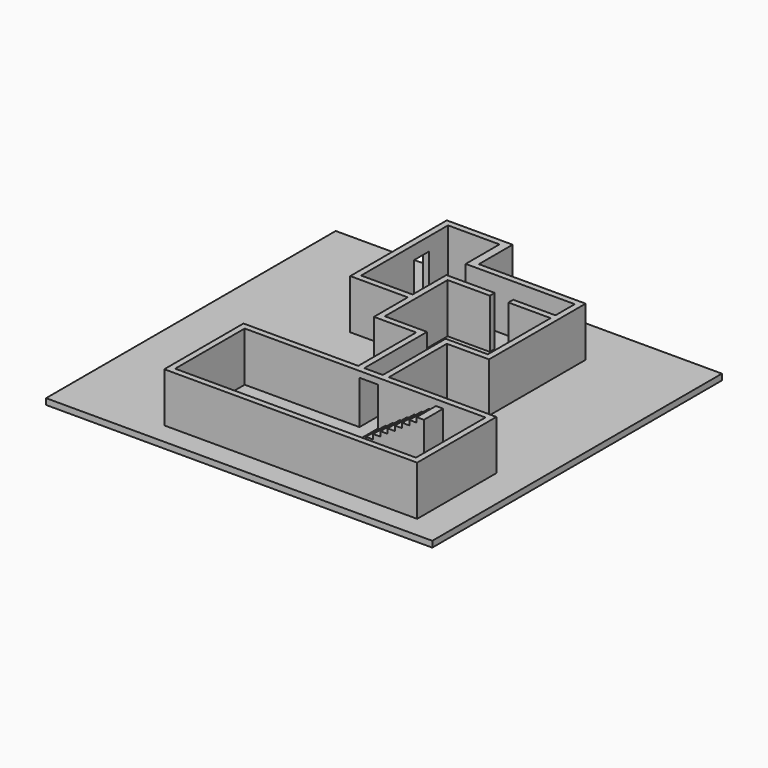
from build123d import *

# Parameters (mm, degrees)
F0_W     = 406.4
F0_H     = 381
F1_DEPTH = 6.35
F3_DEPTH = 52.07
F4_W     = 19.6954607964
F4_H     = 38.0410514772
F5_DEPTH = 25.4
F7_DEPTH = 25.4
F8_W     = 266.1207329154
F8_H     = 104.222646597
F8_W_2   = 253.4207329154
F8_H_2   = 91.522646597
F9_DEPTH = 6.35


with BuildPart() as f1:
    # F0 (on Top) → F1 (new body)
    with BuildSketch(Plane.XY):
        with Locations((-7.9120187303, 477.383510977)):
            Rectangle(F0_W, F0_H)
    extrude(amount=-F1_DEPTH)

    # F2 (on face) → F3 (join)
    with BuildSketch(Plane.XY):
        Polygon((-89.1544180155, 661.533510977), (-89.1544180155, 534.533510977), (-28.623964709, 534.533510977), (-28.623964709, 490.0471397191), (15.826035291, 490.0471397191), (15.826035291, 413.8471397191), (-104.9383804202, 413.8471397191), (-104.9383804202, 309.6244931221), (161.1823524952, 309.6244931221), (161.1823524952, 413.8471397191), (48.055235368, 413.8471397191), (48.055235368, 490.0471397191), (92.505235368, 490.0471397191), (92.505235368, 585.333510977), (92.505235368, 610.733510977), (92.505235368, 617.083510977), (-19.8705563486, 617.083510977), (-19.8705563486, 661.533510977), align=None)
        Polygon((22.176035291, 585.333510977), (-28.623964709, 585.333510977), (-28.623964709, 540.883510977), (-82.8044180155, 540.883510977), (-82.8044180155, 655.183510977), (-28.623964709, 655.183510977), (-28.623964709, 610.733510977), (86.155235368, 610.733510977), (86.155235368, 585.333510977), (41.705235368, 585.333510977), (41.705235368, 578.983510977), (86.155235368, 578.983510977), (86.155235368, 496.4115063727), (41.705235368, 496.4115063727), (41.705235368, 490.0471397191), (41.705235368, 407.4971397191), (154.8323524952, 407.4971397191), (154.8323524952, 315.9744931221), (-98.5883804202, 315.9744931221), (-98.5883804202, 407.4971397191), (22.176035291, 407.4971397191), (22.176035291, 490.0471397191), (22.176035291, 496.3971397191), (-22.273964709, 496.3971397191), (-22.273964709, 578.983510977), (22.176035291, 578.983510977), align=None, mode=Mode.SUBTRACT)
    extrude(amount=F3_DEPTH)

    # F4 (on face) → F5 (cut)
    with BuildSketch(Plane(origin=(-89.1544180155, 0, 0), x_dir=(0, -1, 0), z_dir=(-1, 0, 0))):
        with Locations((-620.421141386, 19.0205257386)):
            Rectangle(F4_W, F4_H)
    extrude(amount=-F5_DEPTH, mode=Mode.SUBTRACT)

    # F6 (on face) → F7 (join)
    with BuildSketch(Plane.XZ.offset(-407.4971397191)):
        Polygon((41.705235368, 5.08), (41.705235368, 0), (110.285235368, 0), (110.285235368, 45.72), (102.665235368, 45.72), (102.665235368, 40.64), (95.045235368, 40.64), (95.045235368, 35.56), (87.425235368, 35.56), (87.425235368, 30.48), (79.805235368, 30.48), (79.805235368, 25.4), (72.185235368, 25.4), (72.185235368, 20.32), (64.565235368, 20.32), (64.565235368, 15.24), (56.945235368, 15.24), (56.945235368, 10.16), (49.325235368, 10.16), (49.325235368, 5.08), align=None)
    extrude(amount=F7_DEPTH)

    # F8 (on face) → F9 (join)
    with BuildSketch(Plane.XY.offset(52.07)):
        with Locations((28.1219860375, 361.7358164206)):
            Rectangle(F8_W, F8_H)
        with Locations((28.1219860375, 361.7358164206)):
            Rectangle(F8_W_2, F8_H_2, mode=Mode.SUBTRACT)
    extrude(amount=-F9_DEPTH)


solid = f1.part
